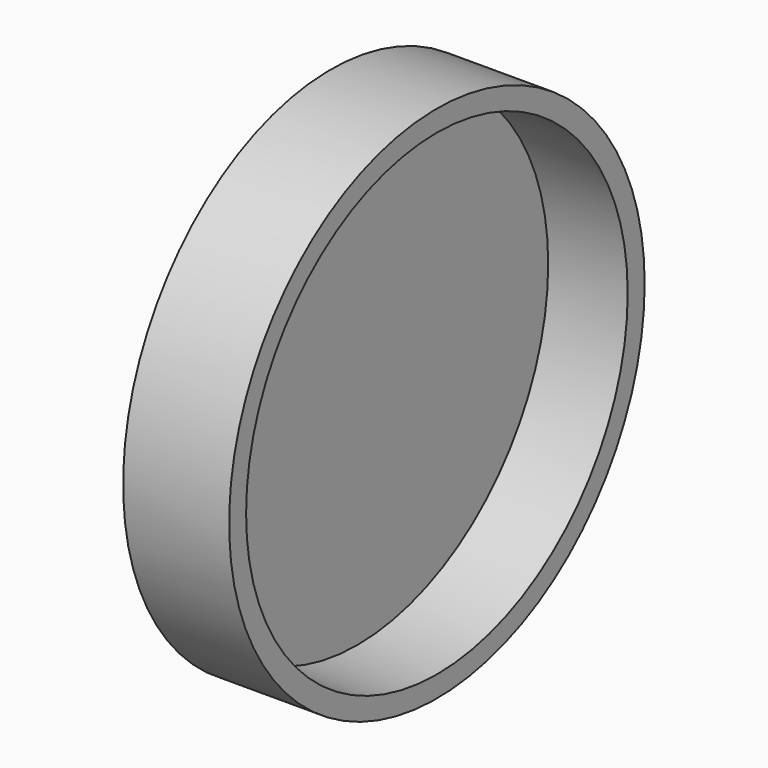
from build123d import *

# Parameters (mm, degrees)
F0_R     = 31.115
F0_R_2   = 28.575
F1_DEPTH = 3.175
F2_DEPTH = 12.7


with BuildPart() as f1:
    # F0 (on Right) → F1 (new body)
    with BuildSketch(Plane.YZ):
        Circle(F0_R)
        Circle(F0_R_2, mode=Mode.SUBTRACT)
        Circle(F0_R_2)
    extrude(amount=F1_DEPTH)

    # F0 (on Right) → F2 (join)
    with BuildSketch(Plane.YZ):
        Circle(F0_R)
        Circle(F0_R_2, mode=Mode.SUBTRACT)
    extrude(amount=F2_DEPTH)


solid = f1.part
